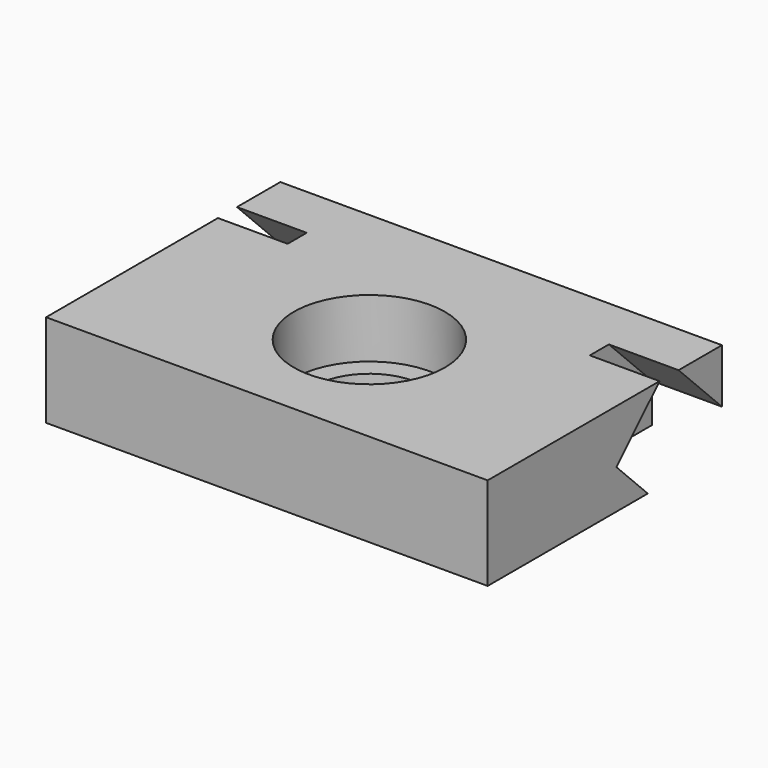
from build123d import *

# Parameters (mm, degrees)
F0_W     = 120.65
F0_H     = 80
F1_DEPTH = 25.4
F3_DEPTH = 19.05
F4_R     = 20.64
F5_DEPTH = 16
F7_DEPTH = 19.05
F8_R     = 14.9987
F9_DEPTH = 25.401


with BuildPart() as f1:
    # F0 (on Top) → F1 (new body)
    with BuildSketch(Plane.XY):
        Rectangle(F0_W, F0_H)
    extrude(amount=F1_DEPTH)

    # F2 (on face) → F3 (cut)
    with BuildSketch(Plane.YZ.offset(60.325)):
        Polygon((21.952974, 28.64855), (3.992462, 10.688038), (39.347801, -24.667301), (57.308314, -6.706789), align=None)
    extrude(amount=-F3_DEPTH, mode=Mode.SUBTRACT)

    # F4 (on face) → F5 (cut)
    with BuildSketch(Plane.XY.offset(25.4)):
        with Locations((0, -5)):
            Circle(F4_R)
    extrude(amount=-F5_DEPTH, mode=Mode.SUBTRACT)

    # F6 (on face) → F7 (cut)
    with BuildSketch(Plane(origin=(-60.325, 0, 0), x_dir=(0, -1, 0), z_dir=(-1, 0, 0))):
        Polygon((-21.943312, 28.653912), (-57.307561, -6.710336), (-39.347049, -24.670849), (-3.9828, 10.6934), align=None)
    extrude(amount=-F7_DEPTH, mode=Mode.SUBTRACT)

    # F8 (on face) → F9 (cut, through all)
    with BuildSketch(Plane.XY.offset(25.4)):
        with Locations((0, -5)):
            Circle(F8_R)
    extrude(amount=-F9_DEPTH, mode=Mode.SUBTRACT)


solid = f1.part
